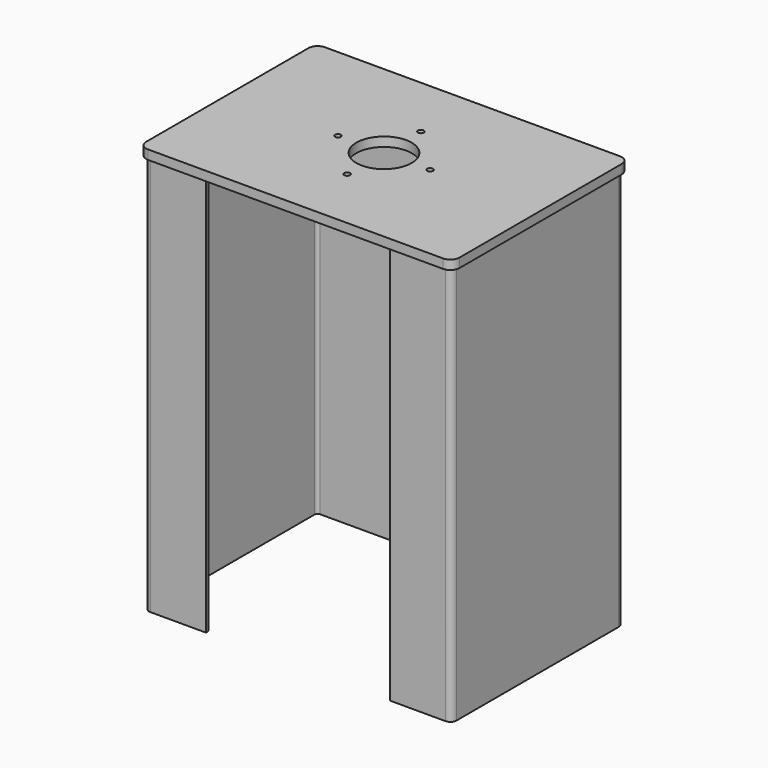
from build123d import *

# Parameters (mm, degrees)
F1_DEPTH = 650
F2_R     = 4.75
F2_R_2   = 45
F3_DEPTH = 15


with BuildPart() as f1:
    # F0 (on Top) → F1 (new body)
    with BuildSketch(Plane.XY):
        with BuildLine():
            Line((150, -175), (240, -175))
            ThreePointArc((240, -175), (247.0710678119, -172.0710678119), (250, -165))
            Line((250, -165), (250, 165))
            ThreePointArc((250, 165), (247.0710678119, 172.0710678119), (240, 175))
            Line((240, 175), (-240, 175))
            ThreePointArc((-240, 175), (-247.0710678119, 172.0710678119), (-250, 165))
            Line((-250, 165), (-250, -165))
            ThreePointArc((-250, -165), (-247.0710678119, -172.0710678119), (-240, -175))
            Line((-240, -175), (-150, -175))
            Line((-150, -175), (-149.9999976158, -170))
            Line((-149.9999976158, -170), (-240, -170))
            ThreePointArc((-240, -170), (-243.5355339059, -168.5355339059), (-245, -165))
            Line((-245, -165), (-245, 165.0000017881))
            ThreePointArc((-245, 165.0000017881), (-243.5355339059, 168.5355356941), (-240, 170.0000017881))
            Line((-240, 170.0000017881), (240.0000047684, 170.0000017881))
            ThreePointArc((240.0000047684, 170.0000017881), (243.5355386743, 168.5355356941), (245.0000047684, 165.0000017881))
            Line((245.0000047684, 165.0000017881), (245.0000047684, -165))
            ThreePointArc((245.0000047684, -165), (243.5355386743, -168.5355339059), (240.0000047684, -170))
            Line((240.0000047684, -170), (150.0000023842, -170))
            Line((150.0000023842, -170), (150, -175))
        make_face()
    extrude(amount=F1_DEPTH)


with BuildPart() as f3:
    # F2 (on face) → F3 (new body)
    with BuildSketch(Plane.XY.offset(650)):
        with BuildLine():
            Line((240, 180), (-240, 180))
            ThreePointArc((-240, 180), (-250.6066017178, 175.6066017178), (-255, 165))
            Line((-255, 165), (-255, -165))
            ThreePointArc((-255, -165), (-250.6066017178, -175.6066017178), (-240, -180))
            Line((-240, -180), (-150, -180))
            Line((-150, -180), (150, -180))
            Line((150, -180), (240, -180))
            ThreePointArc((240, -180), (250.6066017178, -175.6066017178), (255, -165))
            Line((255, -165), (255, 165))
            ThreePointArc((255, 165), (250.6066017178, 175.6066017178), (240, 180))
        make_face()
        with Locations((0, -75)):
            Circle(F2_R, mode=Mode.SUBTRACT)
        with Locations((-75, 0)):
            Circle(F2_R, mode=Mode.SUBTRACT)
        Circle(F2_R_2, mode=Mode.SUBTRACT)
        with BuildLine():
            ThreePointArc((240, 175), (247.0710678119, 172.0710678119), (250, 165))
            Line((250, 165), (250, -165))
            ThreePointArc((250, -165), (247.0710678119, -172.0710678119), (240, -175))
            Line((240, -175), (150, -175))
            Line((150, -175), (150.0000023842, -170))
            Line((150.0000023842, -170), (240.0000047684, -170))
            ThreePointArc((240.0000047684, -170), (243.5355386743, -168.5355339059), (245.0000047684, -165))
            Line((245.0000047684, -165), (245.0000047684, 165.0000017881))
            ThreePointArc((245.0000047684, 165.0000017881), (243.5355386743, 168.5355356941), (240.0000047684, 170.0000017881))
            Line((240.0000047684, 170.0000017881), (-240, 170.0000017881))
            ThreePointArc((-240, 170.0000017881), (-243.5355339059, 168.5355356941), (-245, 165.0000017881))
            Line((-245, 165.0000017881), (-245, -165))
            ThreePointArc((-245, -165), (-243.5355339059, -168.5355339059), (-240, -170))
            Line((-240, -170), (-149.9999976158, -170))
            Line((-149.9999976158, -170), (-150, -175))
            Line((-150, -175), (-240, -175))
            ThreePointArc((-240, -175), (-247.0710678119, -172.0710678119), (-250, -165))
            Line((-250, -165), (-250, 165))
            ThreePointArc((-250, 165), (-247.0710678119, 172.0710678119), (-240, 175))
            Line((-240, 175), (240, 175))
        make_face(mode=Mode.SUBTRACT)
        with Locations((75, 0)):
            Circle(F2_R, mode=Mode.SUBTRACT)
        with Locations((0, 75)):
            Circle(F2_R, mode=Mode.SUBTRACT)
        with BuildLine():
            Line((250, -165), (250, 165))
            ThreePointArc((250, 165), (247.0710678119, 172.0710678119), (240, 175))
            Line((240, 175), (-240, 175))
            ThreePointArc((-240, 175), (-247.0710678119, 172.0710678119), (-250, 165))
            Line((-250, 165), (-250, -165))
            ThreePointArc((-250, -165), (-247.0710678119, -172.0710678119), (-240, -175))
            Line((-240, -175), (-150, -175))
            Line((-150, -175), (-149.9999976158, -170))
            Line((-149.9999976158, -170), (-240, -170))
            ThreePointArc((-240, -170), (-243.5355339059, -168.5355339059), (-245, -165))
            Line((-245, -165), (-245, 165.0000017881))
            ThreePointArc((-245, 165.0000017881), (-243.5355339059, 168.5355356941), (-240, 170.0000017881))
            Line((-240, 170.0000017881), (240.0000047684, 170.0000017881))
            ThreePointArc((240.0000047684, 170.0000017881), (243.5355386743, 168.5355356941), (245.0000047684, 165.0000017881))
            Line((245.0000047684, 165.0000017881), (245.0000047684, -165))
            ThreePointArc((245.0000047684, -165), (243.5355386743, -168.5355339059), (240.0000047684, -170))
            Line((240.0000047684, -170), (150.0000023842, -170))
            Line((150.0000023842, -170), (150, -175))
            Line((150, -175), (240, -175))
            ThreePointArc((240, -175), (247.0710678119, -172.0710678119), (250, -165))
        make_face()
    extrude(amount=F3_DEPTH)


solid = Compound([f1.part, f3.part])
